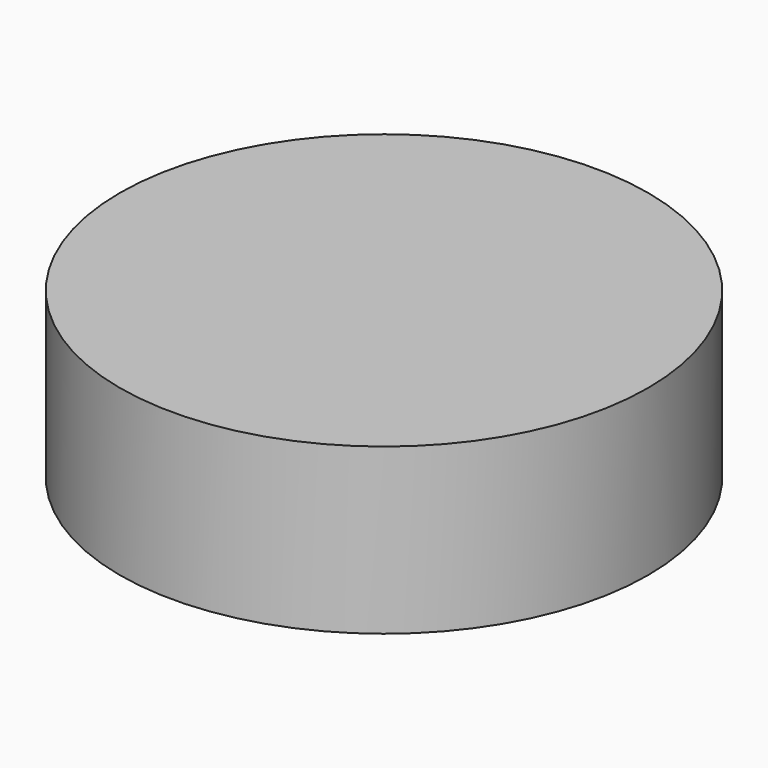
from build123d import *

# Parameters (mm, degrees)
F0_R     = 56.1739618702
F0_R_2   = 32.8963638887
F1_DEPTH = 35.052
F2_DEPTH = 34.798
F0_R_3   = 4.9490742643
F3_DEPTH = 34.798


with BuildPart() as f1:
    # F0 (on Top) → F1 (new body)
    with BuildSketch(Plane.XY):
        Circle(F0_R)
        Circle(F0_R_2, mode=Mode.SUBTRACT)
    extrude(amount=-F1_DEPTH)

    # F0 (on Top) → F2 (join)
    with BuildSketch(Plane.XY):
        Circle(F0_R_2)
        Polygon((24.0832565908, 15.5113956786), (25.4748910012, -13.1010141742), (1.3916344104, -28.6124098528), (-24.0832565908, -15.5113956786), (-25.4748910012, 13.1010141742), (-1.3916344104, 28.6124098528), align=None, mode=Mode.SUBTRACT)
    extrude(amount=-F2_DEPTH)

    # F0 (on Top) → F3 (join)
    with BuildSketch(Plane.XY):
        Polygon((1.3916344104, -28.6124098528), (25.4748910012, -13.1010141742), (24.0832565908, 15.5113956786), (-1.3916344104, 28.6124098528), (-25.4748910012, 13.1010141742), (-24.0832565908, -15.5113956786), align=None)
        Polygon((24.0832565908, 0), (12.0416282954, -20.8567120135), (-12.0416282954, -20.8567120135), (-24.0832565908, 0), (-12.0416282954, 20.8567120135), (12.0416282954, 20.8567120135), align=None, mode=Mode.SUBTRACT)
        Polygon((-12.0416282954, -20.8567120135), (12.0416282954, -20.8567120135), (24.0832565908, 0), (12.0416282954, 20.8567120135), (-12.0416282954, 20.8567120135), (-24.0832565908, 0), align=None)
        Polygon((16.4439717338, 11.0949333309), (17.8304799848, -8.6934305952), (1.3865082509, -19.7883639261), (-16.4439717338, -11.0949333309), (-17.8304799848, 8.6934305952), (-1.3865082509, 19.7883639261), align=None, mode=Mode.SUBTRACT)
        Polygon((1.3865082509, -19.7883639261), (17.8304799848, -8.6934305952), (16.4439717338, 11.0949333309), (-1.3865082509, 19.7883639261), (-17.8304799848, 8.6934305952), (-16.4439717338, -11.0949333309), align=None)
        Polygon((15.2503329708, 0), (7.6251664854, -13.2071757689), (-7.6251664854, -13.2071757689), (-15.2503329708, 0), (-7.6251664854, 13.2071757689), (7.6251664854, 13.2071757689), align=None, mode=Mode.SUBTRACT)
        Polygon((-7.6251664854, -13.2071757689), (7.6251664854, -13.2071757689), (15.2503329708, 0), (7.6251664854, 13.2071757689), (-7.6251664854, 13.2071757689), (-15.2503329708, 0), align=None)
        Polygon((9.7878324796, 4.5358240732), (8.8220551142, -6.2085995387), (-0.9657773653, -10.7444236119), (-9.7878324796, -4.5358240732), (-8.8220551142, 6.2085995387), (0.9657773653, 10.7444236119), align=None, mode=Mode.SUBTRACT)
        Polygon((-0.9657773653, -10.7444236119), (8.8220551142, -6.2085995387), (9.7878324796, 4.5358240732), (0.9657773653, 10.7444236119), (-8.8220551142, 6.2085995387), (-9.7878324796, -4.5358240732), align=None)
        Circle(F0_R_3, mode=Mode.SUBTRACT)
        Circle(F0_R_3)
    extrude(amount=-F3_DEPTH)


solid = f1.part
